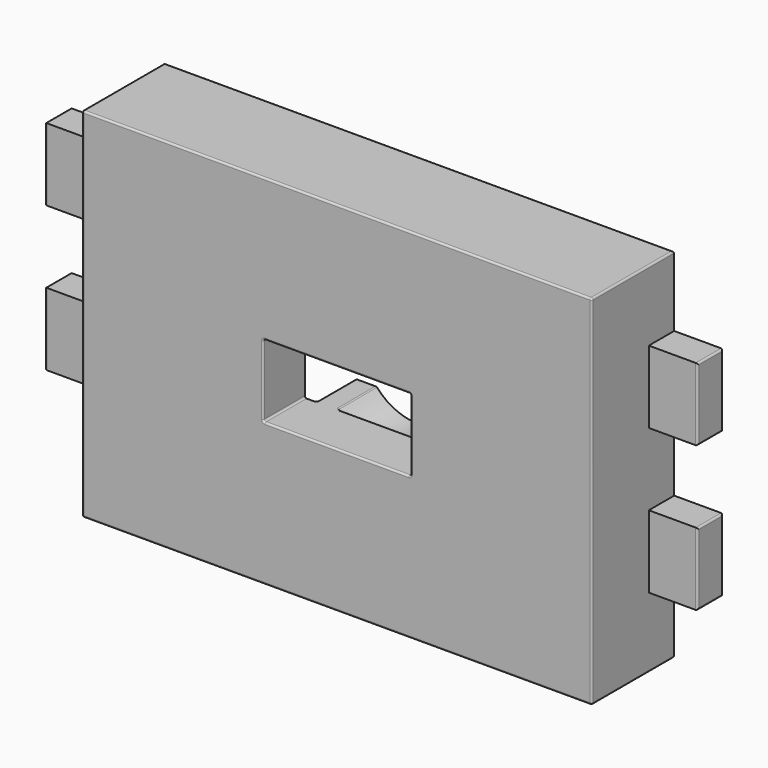
from build123d import *

# Parameters (mm, degrees)
SKETCH004_W     = 22.5
SKETCH004_H     = 15.8
PAD003_DEPTH    = 4.55
SKETCH005_W     = 3.2
SKETCH005_H     = 1.4
PAD004_DEPTH    = 2.15
SKETCH007_W     = 3.2
SKETCH007_H     = 1.4
PAD005_DEPTH    = 4.15
SKETCH014_W     = 13
SKETCH014_H     = 13
POCKET003_DEPTH = 2.2
SKETCH015_R     = 3.255
SKETCH015_R_2   = 2.45
PAD011_DEPTH    = 2.2
SKETCH016_W     = 6.51
SKETCH016_H     = 3.2
POCKET004_DEPTH = 5
FILLET007_R     = 0.08


with BuildPart() as part:
    # Sketch004 → Pad003 (new body)
    with BuildSketch(Plane.XZ):
        Rectangle(SKETCH004_W, SKETCH004_H)
    extrude(amount=PAD003_DEPTH)

    # Sketch005 (on Face2 of Pad003) → Pad004 (join)
    with BuildSketch(Plane(origin=(11.25, 0, 0), x_dir=(0, 0, 1), z_dir=(1, 0, 0))):
        with Locations((-3.2, 0.7)):
            Rectangle(SKETCH005_W, SKETCH005_H)
        with Locations((3.2, 0.7)):
            Rectangle(SKETCH005_W, SKETCH005_H)
    extrude(amount=PAD004_DEPTH)

    # Sketch007 → Pad005 (join)
    with BuildSketch(Plane(origin=(-11.25, 0, 0), x_dir=(0, 0, -1), z_dir=(-1, 0, 0))):
        with Locations((-3.2, 0.7)):
            Rectangle(SKETCH007_W, SKETCH007_H)
        with Locations((3.2, 0.7)):
            Rectangle(SKETCH007_W, SKETCH007_H)
    extrude(amount=PAD005_DEPTH)

    # Sketch014 (on Face4 of Pad005) → Pocket003 (cut)
    with BuildSketch(Plane(origin=(0, 0, 0), x_dir=(1, 0, 0), z_dir=(0, 1, 0))):
        Rectangle(SKETCH014_W, SKETCH014_H)
    extrude(amount=-POCKET003_DEPTH, mode=Mode.SUBTRACT)

    # Sketch015 (on Face31 of Pocket003) → Pad011 (join)
    with BuildSketch(Plane(origin=(0, -2.2, 0), x_dir=(1, 0, 0), z_dir=(0, 1, 0))):
        Circle(SKETCH015_R)
        Circle(SKETCH015_R_2, mode=Mode.SUBTRACT)
    extrude(amount=PAD011_DEPTH)

    # Sketch016 (on Face5 of Pad011) → Pocket004 (cut)
    with BuildSketch(Plane.XZ.offset(4.55)):
        Rectangle(SKETCH016_W, SKETCH016_H)
    extrude(amount=-POCKET004_DEPTH, mode=Mode.SUBTRACT)

    # Fillet007
    fillet007_edges = [part.edges().sort_by_distance(p)[0] for p in [
        (-11.25, -2.275, 7.9),
        (11.25, -2.275, 7.9),
        (0, 0, 7.9),
        (0, -4.55, 7.9),
        (11.25, -2.275, -7.9),
        (-11.25, -2.275, -7.9),
        (0, 0, -7.9),
        (0, -4.55, -7.9),
        (-3.255, -4.55, 0),
        (-3.255, -3.375, 1.6),
        (-3.255, -2.2, 0.8),
        (-3.255, -2.2, -0.8),
        (-3.255, -3.375, -1.6),
        (0, -4.55, 1.6),
        (3.255, -3.375, 1.6),
        (3.044806, -2.2, 1.6),
        (2.834612, -1.1, 1.6),
        (2.345005, 0, 1.6),
        (1.855398, -1.1, 1.6),
        (0, -2.2, 1.6),
        (-1.855398, -1.1, 1.6),
        (-2.345005, 0, 1.6),
        (-2.834612, -1.1, 1.6),
        (-3.044806, -2.2, 1.6),
        (0, 0, 2.45),
        (0, -2.2, 2.45),
        (0, -4.55, -1.6),
        (-3.044806, -2.2, -1.6),
        (-2.834612, -1.1, -1.6),
        (-2.345005, 0, -1.6),
        (-1.855398, -1.1, -1.6),
        (0, -2.2, -1.6),
        (1.855398, -1.1, -1.6),
        (2.345005, 0, -1.6),
        (2.834612, -1.1, -1.6),
        (3.044806, -2.2, -1.6),
        (3.255, -3.375, -1.6),
        (3.255, -4.55, 0),
        (3.255, -2.2, -0.8),
        (3.255, -2.2, 0.8),
        (0, -2.2, -2.45),
        (0, 0, -2.45),
        (-11.25, -4.55, 0),
        (11.25, -4.55, 0),
        (13.4, 0, 3.2),
        (13.4, -0.7, 4.8),
        (13.4, -1.4, 3.2),
        (13.4, -0.7, 1.6),
        (13.4, 0, -3.2),
        (13.4, -0.7, -1.6),
        (13.4, -1.4, -3.2),
        (13.4, -0.7, -4.8),
        (-15.4, 0, 3.2),
        (-15.4, -0.7, 1.6),
        (-15.4, -1.4, 3.2),
        (-15.4, -0.7, 4.8),
        (-15.4, 0, -3.2),
        (-15.4, -0.7, -4.8),
        (-15.4, -1.4, -3.2),
        (-15.4, -0.7, -1.6),
        (6.5, -1.1, -6.5),
        (6.5, -1.1, 6.5),
        (6.5, 0, 0),
        (6.5, -2.2, 0),
        (-6.5, -1.1, 6.5),
        (0, 0, 6.5),
        (0, -2.2, 6.5),
        (-6.5, -1.1, -6.5),
        (0, 0, -6.5),
        (0, -2.2, -6.5),
        (-6.5, 0, 0),
        (-6.5, -2.2, 0),
        (0, 0, 3.255),
        (0, -2.2, 3.255),
        (0, -2.2, -3.255),
        (0, 0, -3.255),
    ]]
    fillet(fillet007_edges, radius=FILLET007_R)


with BuildPart() as part_1:
    # Body002 placement: moved
    add(part.part.moved(Location((0, 15.9, 0))))


solid = part_1.part
